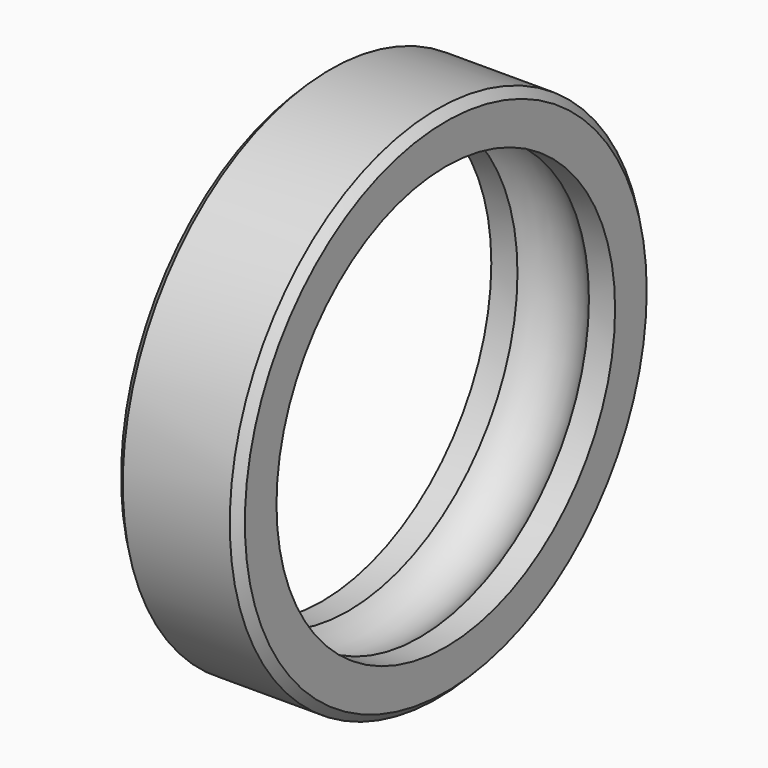
from build123d import *

# Parameters (mm, degrees)
F2_SIZE = 2.1


with BuildPart() as f1:
    # F0 (on Top) → F1 (revolve)
    with BuildSketch(Plane.XY):
        with BuildLine():
            Line((15.5, 65), (-15.5, 65))
            Line((-15.5, 65), (-15.5, 53))
            Line((-15.5, 53), (-8.944272, 53))
            ThreePointArc((-8.944272, 53), (0, 57), (8.944272, 53))
            Line((8.944272, 53), (15.5, 53))
            Line((15.5, 53), (15.5, 65))
        make_face()
    revolve(axis=Axis((0.512037, 0, 0), (1, 0, 0)))

    # F2
    f2_edges = [f1.edges().sort_by_distance(p)[0] for p in [
        (15.5, -65, 0),
        (-15.5, -65, 0),
        (0, 65, 0),
    ]]
    chamfer(f2_edges, length=F2_SIZE)


solid = f1.part
